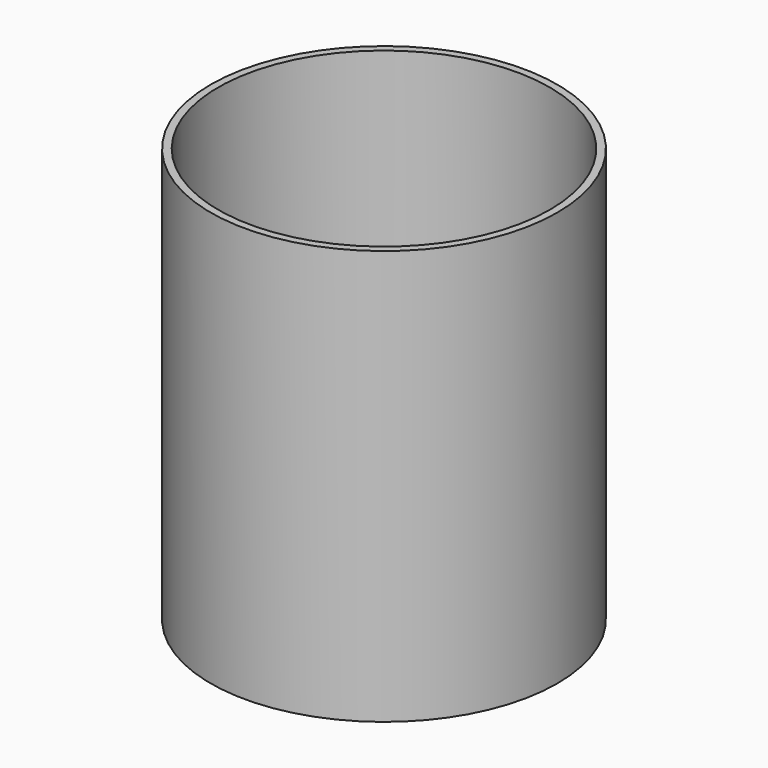
from build123d import *

# Parameters (mm, degrees)
F0_R     = 29.21
F1_DEPTH = 69.85
F2_R     = 27.94
F3_DEPTH = 68.834
F4_R     = 1.5875


with BuildPart() as f1:
    # F0 (on Top) → F1 (new body)
    with BuildSketch(Plane.XY):
        Circle(F0_R)
    extrude(amount=F1_DEPTH)

    # F2 (on face) → F3 (cut)
    with BuildSketch(Plane.XY.offset(69.85)):
        Circle(F2_R)
    extrude(amount=-F3_DEPTH, mode=Mode.SUBTRACT)

    # F4
    f4_edges = [f1.edges().sort_by_distance(p)[0] for p in [
        (-27.94, 0, 1.016),
    ]]
    fillet(f4_edges, radius=F4_R)


solid = f1.part
